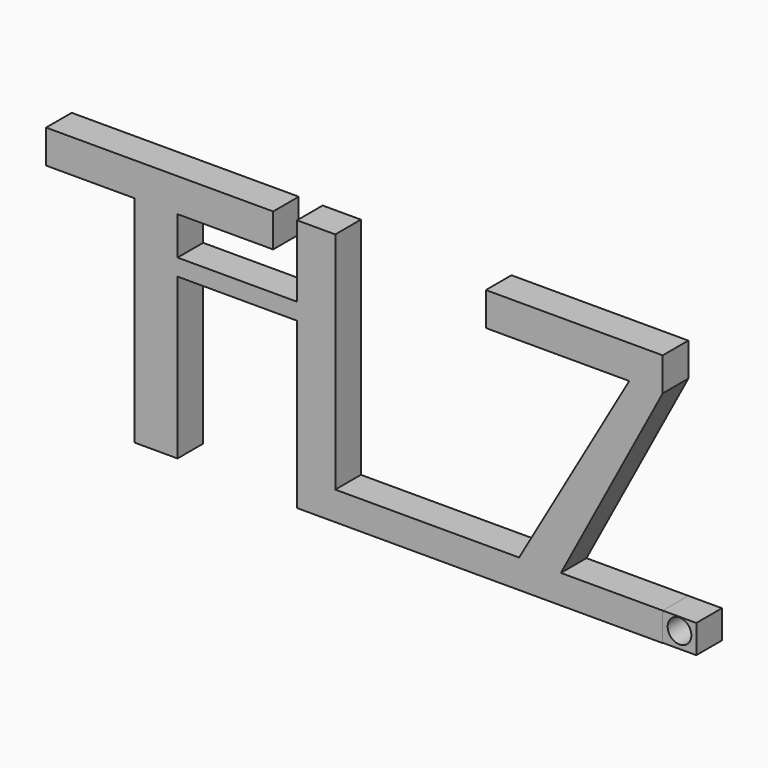
from build123d import *

# Parameters (mm, degrees)
F0_W     = 9.4798579812
F0_H     = 1.3271793723
F0_W_2   = 10.9966341406
F0_H_2   = 2.2751661018
F1_DEPTH = 2.54
F2_W     = 2.665358712
F2_H     = 2.2522518411
F3_DEPTH = 2.54
F4_R     = 0.9393932001
F5_DEPTH = 25.4


with BuildPart() as f1:
    # F0 (on Front) → F1 (new body)
    with BuildSketch(Plane.XZ):
        Polygon((-34.0326912701, 33.4638990462), (-52.0444214344, 33.4638990462), (-52.0444214344, 30.8095384389), (-45.0293272734, 30.8095384389), (-41.6165776551, 30.8095384389), (-34.0326912701, 30.8095384389), align=None)
        Polygon((-41.6165776551, 30.8095384389), (-45.0293272734, 30.8095384389), (-45.0293272734, 13.7457931414), (-41.6165776551, 13.7457931414), (-41.6165776551, 26.4488048851), (-41.6165776551, 27.7759842575), align=None)
        with Locations((-36.8766486645, 27.1123945713)):
            Rectangle(F0_W, F0_H)
        Polygon((-32.1367196739, 33.4638990462), (-32.1367196739, 27.7759842575), (-32.1367196739, 26.4488048851), (-32.1367196739, 13.3665995672), (-29.1031636298, 13.3665995672), (-29.1031636298, 15.641765669), (-29.1031636298, 31.9471210241), (-29.1031636298, 33.4638990462), align=None)
        with Locations((-23.6048465595, 14.5041826181)):
            Rectangle(F0_W_2, F0_H_2)
        Polygon((-18.1065294892, 15.641765669), (-18.1065294892, 13.3665995672), (-15.8313624561, 13.3665995672), (-14.5206691614, 15.641765669), align=None)
        Polygon((-14.5206691614, 15.641765669), (-15.8313624561, 13.3665995672), (-12.4186147004, 13.3665995672), (-12.4186147004, 15.641765669), align=None)
        Polygon((-5.7827145793, 30.8095384389), (-14.5206691614, 15.641765669), (-12.4186147004, 15.641765669), (-12.4186147004, 13.3665995672), (-11.2068413846, 15.641765669), (-3.1283532735, 30.8095384389), align=None)
        Polygon((-11.2068413846, 15.641765669), (-12.4186147004, 13.3665995672), (-3.1283532735, 13.3665995672), (-3.1283532735, 15.641765669), align=None)
        Polygon((-17.158543691, 30.8095384389), (-5.7827145793, 30.8095384389), (-3.1283532735, 30.8095384389), (-3.1283532735, 33.4638990462), (-17.158543691, 33.4638990462), (-17.158543691, 31.9471210241), align=None)
    extrude(amount=F1_DEPTH)


with BuildPart() as f3:
    # F2 (on face) → F3 (new body)
    with BuildSketch(Plane.XZ.offset(2.54)):
        with Locations((-1.7956739175, 14.5156397484)):
            Rectangle(F2_W, F2_H)
    extrude(amount=-F3_DEPTH)

    # F4 (on face) → F5 (cut)
    with BuildSketch(Plane.XZ.offset(2.54)):
        with Locations((-1.7961780541, 14.6443592384)):
            Circle(F4_R)
    extrude(amount=-F5_DEPTH, mode=Mode.SUBTRACT)


solid = Compound([f1.part, f3.part])
